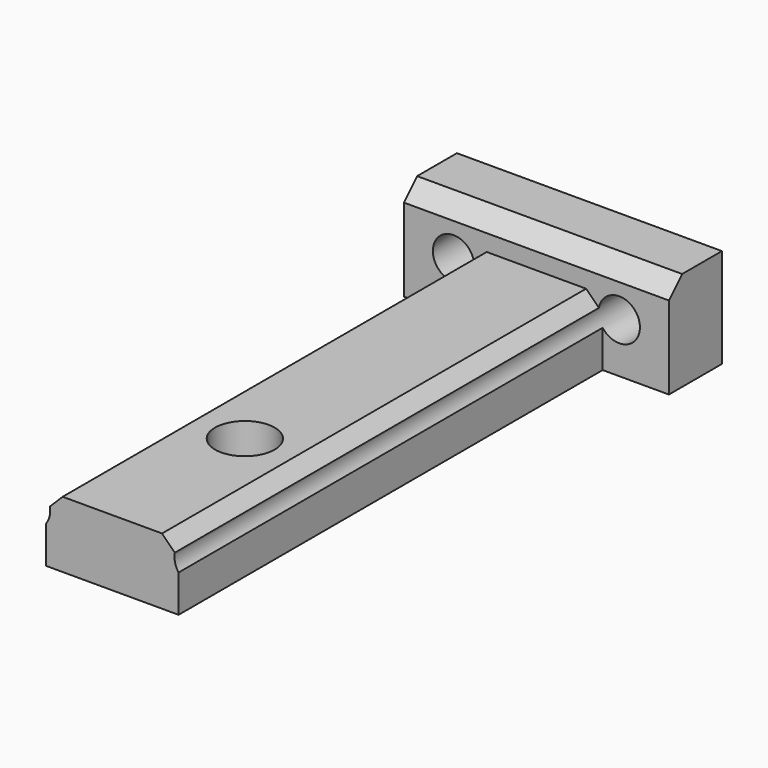
from build123d import *

# Parameters (mm, degrees)
F0_R     = 1.8
F1_DEPTH = 4
F2_DEPTH = 6
F4_SIZE  = 1
F3_R     = 1.25
F5_DEPTH = 40


with BuildPart() as f1:
    # F0 (on Top) → F1 (new body)
    with BuildSketch(Plane.XY):
        Polygon((4, 22), (-4, 22), (-4, -10), (0, -10), (4, -10), align=None)
        Circle(F0_R, mode=Mode.SUBTRACT)
    extrude(amount=F1_DEPTH)

    # F0 (on Top) → F2 (join)
    with BuildSketch(Plane.XY):
        Polygon((8, 26), (0, 26), (-8, 26), (-8, 22), (-4, 22), (4, 22), (8, 22), align=None)
    extrude(amount=F2_DEPTH)

    # F4
    f4_edges = [f1.edges().sort_by_distance(p)[0] for p in [
        (0, 22, 6),
        (-4, 6, 4),
        (4, 6, 4),
    ]]
    chamfer(f4_edges, length=F4_SIZE)

    # F3 (on face) → F5 (cut)
    with BuildSketch(Plane(origin=(0, 26, 0), x_dir=(-1, 0, 0), z_dir=(0, 1, 0))):
        with Locations((-5, 3)):
            Circle(F3_R)
        with Locations((5, 3)):
            Circle(F3_R)
    extrude(amount=-F5_DEPTH, mode=Mode.SUBTRACT)


solid = f1.part
